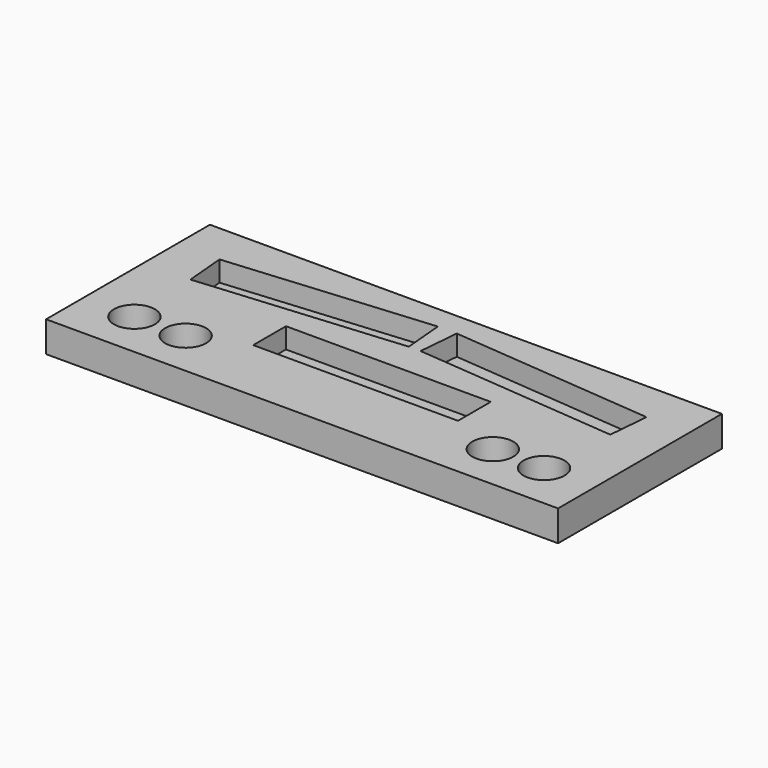
from build123d import *

# Parameters (mm, degrees)
F0_W     = 50.8
F0_H     = 10.16
F1_DEPTH = 7.62
F2_DEPTH = 2.54


with BuildPart() as f1:
    # F0 (on Top) → F1 (new body)
    with BuildSketch(Plane.XY):
        with BuildLine():
            Line((0, 20.32), (-63.5, 20.32))
            Line((-63.5, 20.32), (-63.5, 0))
            Line((-63.5, 0), (-63.5, -18.967217))
            Line((-63.5, -18.967217), (-55.88, -18.967217))
            ThreePointArc((-55.88, -18.967217), (-50.8, -13.887217), (-45.72, -18.967217))
            Line((-45.72, -18.967217), (-43.18, -18.967217))
            ThreePointArc((-43.18, -18.967217), (-38.1, -13.887217), (-33.02, -18.967217))
            Line((-33.02, -18.967217), (33.02, -18.967217))
            ThreePointArc((33.02, -18.967217), (38.1, -13.887217), (43.18, -18.967217))
            Line((43.18, -18.967217), (45.72, -18.967217))
            ThreePointArc((45.72, -18.967217), (50.8, -13.887217), (55.88, -18.967217))
            Line((55.88, -18.967217), (63.5, -18.967217))
            Line((63.5, -18.967217), (63.5, 0))
            Line((63.5, 0), (63.5, 20.32))
            Line((63.5, 20.32), (0, 20.32))
        make_face()
        with Locations((0, -8.807217)):
            Rectangle(F0_W, F0_H, mode=Mode.SUBTRACT)
        Polygon((-1.463309, 4.427512), (-52.07, 0), (-52.955502, 10.121338), (-2.348812, 14.54885), align=None, mode=Mode.SUBTRACT)
        Polygon((2.348812, 14.54885), (52.955502, 10.121338), (52.07, 0), (1.463309, 4.427512), align=None, mode=Mode.SUBTRACT)
        with BuildLine():
            Line((-55.88, -18.967217), (-63.5, -18.967217))
            Line((-63.5, -18.967217), (-63.5, -30.48))
            Line((-63.5, -30.48), (0, -30.48))
            Line((0, -30.48), (63.5, -30.48))
            Line((63.5, -30.48), (63.5, -18.967217))
            Line((63.5, -18.967217), (55.88, -18.967217))
            ThreePointArc((55.88, -18.967217), (50.8, -24.047217), (45.72, -18.967217))
            Line((45.72, -18.967217), (43.18, -18.967217))
            ThreePointArc((43.18, -18.967217), (38.1, -24.047217), (33.02, -18.967217))
            Line((33.02, -18.967217), (-33.02, -18.967217))
            ThreePointArc((-33.02, -18.967217), (-38.1, -24.047217), (-43.18, -18.967217))
            Line((-43.18, -18.967217), (-45.72, -18.967217))
            ThreePointArc((-45.72, -18.967217), (-50.8, -24.047217), (-55.88, -18.967217))
        make_face()
    extrude(amount=F1_DEPTH)

    # F0 (on Top) → F2 (join)
    with BuildSketch(Plane.XY):
        with Locations((0, -8.807217)):
            Rectangle(F0_W, F0_H)
        Polygon((-52.955502, 10.121338), (-52.07, 0), (-1.463309, 4.427512), (-2.348812, 14.54885), align=None)
        Polygon((52.07, 0), (52.955502, 10.121338), (2.348812, 14.54885), (1.463309, 4.427512), align=None)
    extrude(amount=F2_DEPTH)


solid = f1.part
